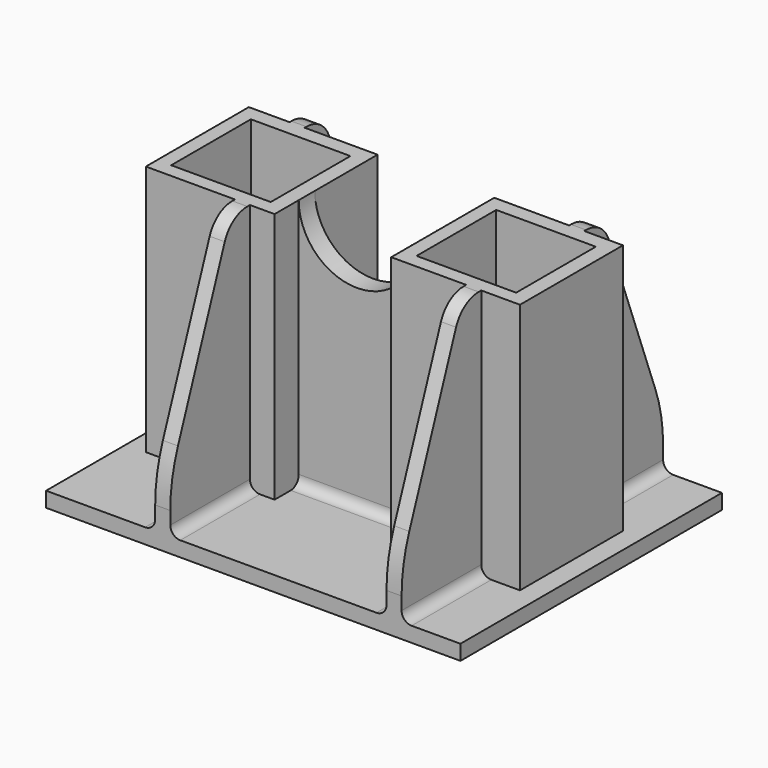
from build123d import *

# Parameters (mm, degrees)
F0_R       = 6.35
F1_DEPTH   = 50.8
F3_DEPTH   = 10
F0_W       = 3
F0_H       = 19.6
F0_W_2     = 19.8
F0_H_2     = 19.8
F0_W_3     = 23.2
F0_H_3     = 4
F5_DEPTH   = 3
F6_DEPTH   = 50
F8_DEPTH   = 4
F9_SIZE2   = 15
F9_SIZE    = 40
F9_2_SIZE2 = 15
F9_2_SIZE  = 40
F9_3_SIZE2 = 15
F9_3_SIZE  = 40
F10_R      = 6
F11_R      = 30
F12_R      = 2


with BuildPart() as f1:
    # F0 (on Top) → F1 (new body)
    with BuildSketch(Plane.XY):
        Circle(F0_R)
    extrude(amount=F1_DEPTH)

    # F2 (on face) → F3 (cut)
    with BuildSketch(Plane.XY.offset(50.8)):
        with BuildLine():
            Line((5.5966507842, 3), (-5.5966507842, 3))
            ThreePointArc((-5.5966507842, 3), (-6.35, 0), (-5.5966507842, -3))
            Line((-5.5966507842, -3), (5.5966507842, -3))
            ThreePointArc((5.5966507842, -3), (6.1587836656, -1.546571615), (6.35, 0))
            ThreePointArc((6.35, 0), (6.1587836656, 1.546571615), (5.5966507842, 3))
        make_face()
    extrude(amount=-F3_DEPTH, mode=Mode.SUBTRACT)


with BuildPart() as f1_1:
    # F4: moved
    add(f1.part.moved(Location((0, 0, -15.7))))


with BuildPart() as f5:
    # F0 (on Top) → F5 (new body)
    with BuildSketch(Plane.XY):
        Polygon((-36.4, -30.6), (-36.4, -5), (-34.4, -5), (-28.3, -5), (-28.3, 14.6), (-40.4, 14.6), (-40.4, -50.4), (-18.7, -50.4), (-18.7, -30.6), align=None)
        with Locations((-26.8, 4.8)):
            Rectangle(F0_W, F0_H)
        Polygon((-34.4, -5), (-36.4, -5), (-36.4, -30.6), (-18.7, -30.6), (-15.7, -30.6), (-10.8, -30.6), (-10.8, -24.6), (-10.8, -20.6), (-10.8, -5), (-25.3, -5), (-28.3, -5), align=None)
        with Locations((-23.7, -17.9)):
            Rectangle(F0_W_2, F0_H_2, mode=Mode.SUBTRACT)
        with Locations((-23.7, -17.9)):
            Rectangle(F0_W_2, F0_H_2)
        with BuildLine():
            Line((-25.3, 14.6), (-25.3, -5))
            Line((-25.3, -5), (-10.8, -5))
            ThreePointArc((-10.8, -5), (-11.6226849894, -2.5599206311), (-11.9012604374, 0))
            Line((-11.9012604374, 0), (-11.9012604374, 14.6))
            Line((-11.9012604374, 14.6), (-25.3, 14.6))
        make_face()
        with BuildLine():
            ThreePointArc((11.9012604374, 0), (2.5599206311, -11.6226849894), (-10.8, -5))
            Line((-10.8, -5), (-10.8, -20.6))
            Line((-10.8, -20.6), (12.4, -20.6))
            Line((12.4, -20.6), (12.4, -5))
            Line((12.4, -5), (27.3, -5))
            Line((27.3, -5), (27.3, 14.6))
            Line((27.3, 14.6), (11.9012604374, 14.6))
            Line((11.9012604374, 14.6), (11.9012604374, 0))
        make_face()
        with Locations((0.8, -22.6)):
            Rectangle(F0_W_3, F0_H_3)
        with Locations((-17.2, -40.5)):
            Rectangle(F0_W, F0_H_2)
        Polygon((-10.8, -30.6), (-15.7, -30.6), (-15.7, -50.4), (0.8, -50.4), (9.6, -50.4), (27.3, -50.4), (27.3, -30.6), (12.4, -30.6), (12.4, -24.6), (-10.8, -24.6), align=None)
        Polygon((12.4, -5), (12.4, -20.6), (12.4, -24.6), (12.4, -30.6), (27.3, -30.6), (30.3, -30.6), (38, -30.6), (38, -5), (30.3, -5), (27.3, -5), align=None)
        with Locations((25.1, -17.9)):
            Rectangle(F0_W_2, F0_H_2, mode=Mode.SUBTRACT)
        with Locations((28.8, 4.8)):
            Rectangle(F0_W, F0_H)
        Polygon((42, 14.6), (30.3, 14.6), (30.3, -5), (38, -5), (38, -30.6), (30.3, -30.6), (30.3, -50.4), (42, -50.4), align=None)
        with Locations((28.8, -40.5)):
            Rectangle(F0_W, F0_H_2)
        with Locations((25.1, -17.9)):
            Rectangle(F0_W_2, F0_H_2)
    extrude(amount=-F5_DEPTH)

    # F0 (on Top) → F6 (join)
    with BuildSketch(Plane.XY):
        Polygon((-34.4, -5), (-36.4, -5), (-36.4, -30.6), (-18.7, -30.6), (-15.7, -30.6), (-10.8, -30.6), (-10.8, -24.6), (-10.8, -20.6), (-10.8, -5), (-25.3, -5), (-28.3, -5), align=None)
        with Locations((-23.7, -17.9)):
            Rectangle(F0_W_2, F0_H_2, mode=Mode.SUBTRACT)
        Polygon((12.4, -5), (12.4, -20.6), (12.4, -24.6), (12.4, -30.6), (27.3, -30.6), (30.3, -30.6), (38, -30.6), (38, -5), (30.3, -5), (27.3, -5), align=None)
        with Locations((25.1, -17.9)):
            Rectangle(F0_W_2, F0_H_2, mode=Mode.SUBTRACT)
        with Locations((0.8, -22.6)):
            Rectangle(F0_W_3, F0_H_3)
        with Locations((-17.2, -40.5)):
            Rectangle(F0_W, F0_H_2)
        with Locations((28.8, -40.5)):
            Rectangle(F0_W, F0_H_2)
        with Locations((-26.8, 4.8)):
            Rectangle(F0_W, F0_H)
        with Locations((28.8, 4.8)):
            Rectangle(F0_W, F0_H)
    extrude(amount=F6_DEPTH)

    # F7 (on face) → F8 (cut)
    with BuildSketch(Plane.XZ.offset(24.6)):
        with BuildLine():
            ThreePointArc((-10.8, 50), (0.8, 38.4), (12.4, 50))
            Line((12.4, 50), (-10.8, 50))
        make_face()
    extrude(amount=-F8_DEPTH, mode=Mode.SUBTRACT)

    # F9
    f9_edges = [f5.edges().sort_by_distance(p)[0] for p in [
        (28.8, -50.4, 50),
        (-17.2, -50.4, 50),
    ]]
    f9_side = f5.faces().sort_by_distance((-39.420267, -50.4, -1.5))[0]
    chamfer(f9_edges, length=F9_SIZE, length2=F9_SIZE2, reference=f9_side)

    # F9#2
    f9_2_edges = [f5.edges().sort_by_distance(p)[0] for p in [
        (28.8, 14.6, 50),
    ]]
    f9_2_side = f5.faces().sort_by_distance((28.105061, 14.6, 15.042083))[0]
    chamfer(f9_2_edges, length=F9_2_SIZE, length2=F9_2_SIZE2, reference=f9_2_side)

    # F9#3
    f9_3_edges = [f5.edges().sort_by_distance(p)[0] for p in [
        (-26.8, 14.6, 50),
    ]]
    f9_3_side = f5.faces().sort_by_distance((-26.564248, 14.6, 15.379252))[0]
    chamfer(f9_3_edges, length=F9_3_SIZE, length2=F9_3_SIZE2, reference=f9_3_side)

    # F10
    f10_edges = [f5.edges().sort_by_distance(p)[0] for p in [
        (-17.2, -35.4, 50),
        (28.8, -35.4, 50),
        (28.8, -0.4, 50),
        (-26.8, -0.4, 50),
    ]]
    fillet(f10_edges, radius=F10_R)

    # F11
    f11_edges = [f5.edges().sort_by_distance(p)[0] for p in [
        (-17.2, -50.4, 10),
        (28.8, -50.4, 10),
        (28.8, 14.6, 10),
        (-26.8, 14.6, 10),
    ]]
    fillet(f11_edges, radius=F11_R)

    # F12
    f12_edges = [f5.edges().sort_by_distance(p)[0] for p in [
        (27.3, 4.8, 0),
        (0.8, -20.6, 0),
        (-28.3, 4.8, 0),
        (-25.3, 4.8, 0),
        (30.3, 4.8, 0),
        (0.8, -24.6, 0),
        (-15.7, -40.5, 0),
        (-18.7, -40.5, 0),
        (30.3, -40.5, 0),
        (27.3, -40.5, 0),
    ]]
    fillet(f12_edges, radius=F12_R)


solid = Compound([f1_1.part, f5.part])
